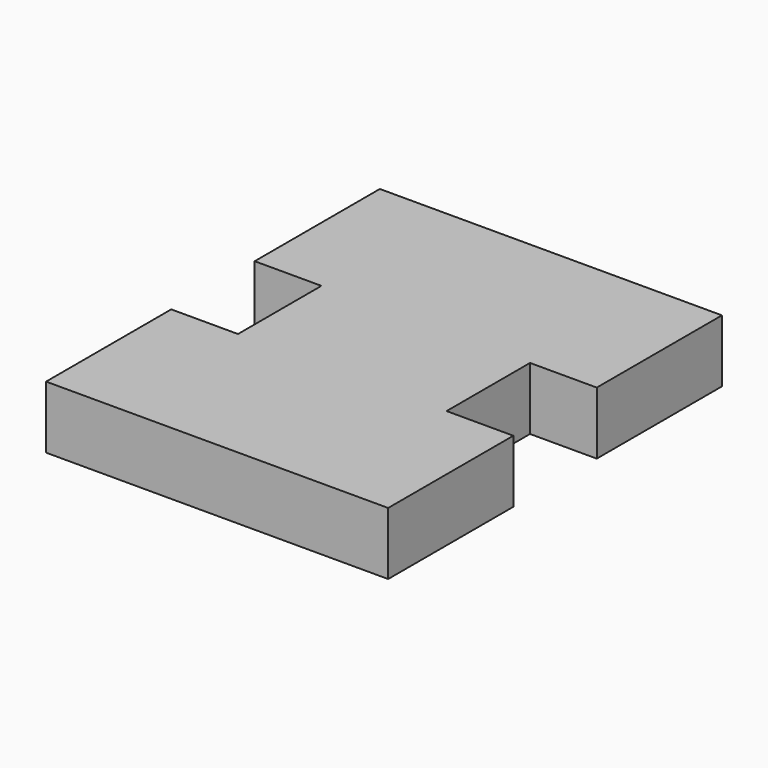
from build123d import *

# Parameters (mm, degrees)
F1_DEPTH = 3.81


with BuildPart() as f1:
    # F0 (on Top) → F1 (new body, symmetric)
    with BuildSketch(Plane.XY):
        Polygon((-8.128, 0), (0, 0), (33.528, 0), (33.528, 19.05), (25.4, 19.05), (25.4, 31.75), (33.528, 31.75), (33.528, 50.8), (25.4, 50.8), (0, 50.8), (-8.128, 50.8), (-8.128, 31.75), (0, 31.75), (0, 19.05), (-8.128, 19.05), align=None)
    extrude(amount=F1_DEPTH, both=True)


solid = f1.part
